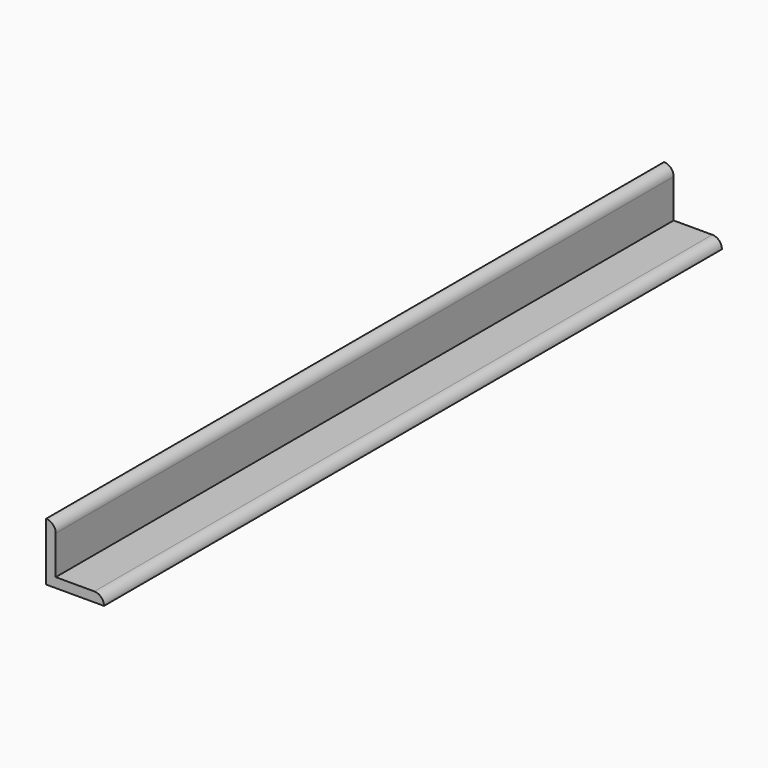
from build123d import *

# Parameters (mm, degrees)
F1_DEPTH = 127


with BuildPart() as f1:
    # F0 (on Front) → F1 (new body, symmetric)
    with BuildSketch(Plane.XZ):
        with BuildLine():
            ThreePointArc((3.175, 15.875), (2.245064, 18.120064), (0, 19.05))
            Line((0, 19.05), (0, 0))
            Line((0, 0), (19.05, 0))
            ThreePointArc((19.05, 0), (18.120064, 2.245064), (15.875, 3.175))
            Line((15.875, 3.175), (3.175, 3.175))
            Line((3.175, 3.175), (3.175, 15.875))
        make_face()
    extrude(amount=F1_DEPTH, both=True)


solid = f1.part
